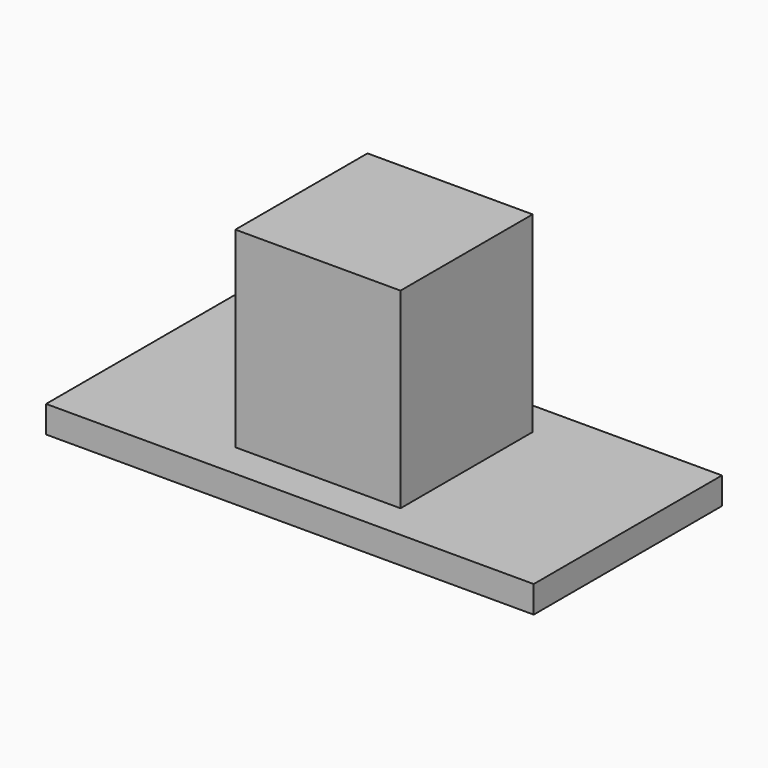
from build123d import *

# Parameters (mm, degrees)
F0_W     = 9.95
F0_H     = 4.8
F1_DEPTH = 0.55
F2_W     = 6.95
F2_H     = 3.4
F3_DEPTH = 0.45
F4_W     = 3.37
F4_H     = 3.37
F5_DEPTH = 3.91
F6_W     = 1.5
F6_H     = 1.5
F7_DEPTH = 4.5


with BuildPart() as f1:
    # F0 (on Top) → F1 (new body)
    with BuildSketch(Plane.XY):
        with Locations((4.975, 2.4)):
            Rectangle(F0_W, F0_H)
    extrude(amount=-F1_DEPTH)

    # F2 (on face) → F3 (join)
    with BuildSketch(Plane(origin=(0, 0, -0.55), x_dir=(1, 0, 0), z_dir=(0, 0, -1))):
        with Locations((4.975, -2.4)):
            Rectangle(F2_W, F2_H)
    extrude(amount=F3_DEPTH)

    # F4 (on face) → F5 (join)
    with BuildSketch(Plane.XY):
        with Locations((4.975, 2.4)):
            Rectangle(F4_W, F4_H)
    extrude(amount=F5_DEPTH)

    # F6 (on face) → F7 (cut)
    with BuildSketch(Plane(origin=(0, 0, -1), x_dir=(1, 0, 0), z_dir=(0, 0, -1))):
        with Locations((4.975, -2.4)):
            Rectangle(F6_W, F6_H)
    extrude(amount=-F7_DEPTH, mode=Mode.SUBTRACT)


solid = f1.part
